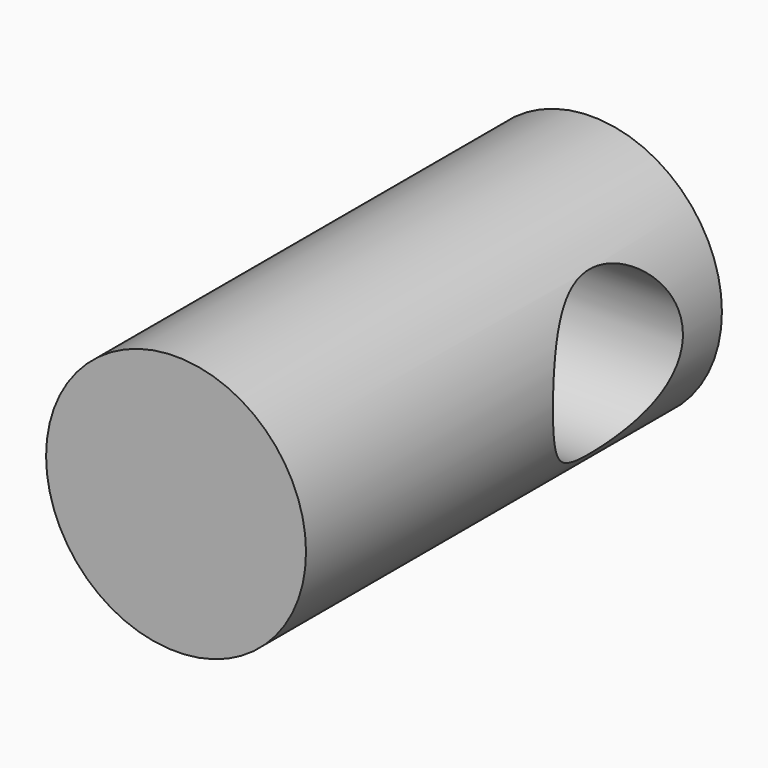
from build123d import *

# Parameters (mm, degrees)
F0_R     = 20
F1_DEPTH = 60
F2_R     = 12.5
F3_DEPTH = 20
F4_DEPTH = 20
F5_DEPTH = 20


with BuildPart() as f1:
    # F0 (on Front) → F1 (new body, symmetric)
    with BuildSketch(Plane.XZ):
        Circle(F0_R)
    extrude(amount=F1_DEPTH, both=True)

    # F2 (on Right) → F3 (cut, symmetric)
    with BuildSketch(Plane.YZ):
        Circle(F2_R)
    extrude(amount=F3_DEPTH, both=True, mode=Mode.SUBTRACT)

    # F4 (cut, symmetric): a face of the model
    f4_faces = [f1.faces().sort_by_distance(p)[0] for p in [
        (0, 60, 0),
    ]]
    extrude(f4_faces, amount=F4_DEPTH, both=True, mode=Mode.SUBTRACT)

    # F5 (cut, symmetric): a face of the model
    f5_faces = [f1.faces().sort_by_distance(p)[0] for p in [
        (0, 40, 0),
    ]]
    extrude(f5_faces, amount=F5_DEPTH, both=True, mode=Mode.SUBTRACT)


solid = f1.part
